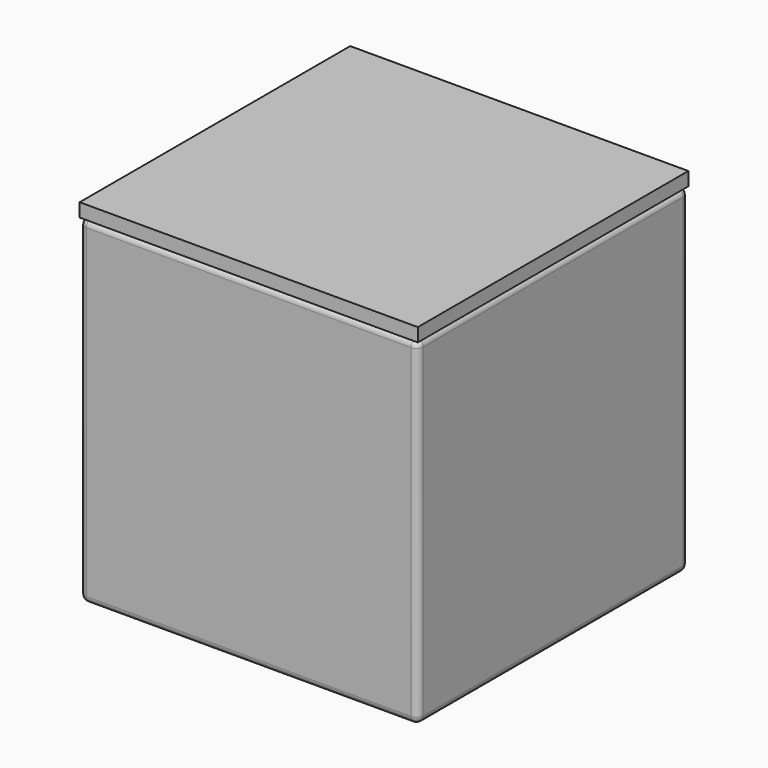
from build123d import *

# Parameters (mm, degrees)
F0_W     = 50
F0_H     = 50
F1_DEPTH = 50
F2_T     = -2
F3_R     = 1
F5_W     = 50
F5_H     = 50
F6_DEPTH = 2


with BuildPart() as f1:
    # F0 (on Front) → F1 (new body)
    with BuildSketch(Plane.XZ):
        Rectangle(F0_W, F0_H)
    extrude(amount=F1_DEPTH)

    # F2
    f2_openings = [f1.faces().sort_by_distance(p)[0] for p in [
        (0, -25, 25),
    ]]
    offset(amount=F2_T, openings=f2_openings)

    # F3
    f3_edges = [f1.edges().sort_by_distance(p)[0] for p in [
        (25, -50, 0),
        (0, -50, 25),
        (-25, -50, 0),
        (0, -50, -25),
        (25, -25, -25),
        (25, -25, 25),
        (25, 0, 0),
        (-25, -25, 25),
        (-25, -25, -25),
        (-25, 0, 0),
        (0, 0, 25),
        (0, 0, -25),
    ]]
    fillet(f3_edges, radius=F3_R)


with BuildPart() as f6:
    # F5 (on offset) → F6 (new body)
    with BuildSketch(Plane.XY.offset(25)):
        with Locations((0, -25)):
            Rectangle(F5_W, F5_H)
    extrude(amount=F6_DEPTH)


solid = Compound([f1.part, f6.part])
